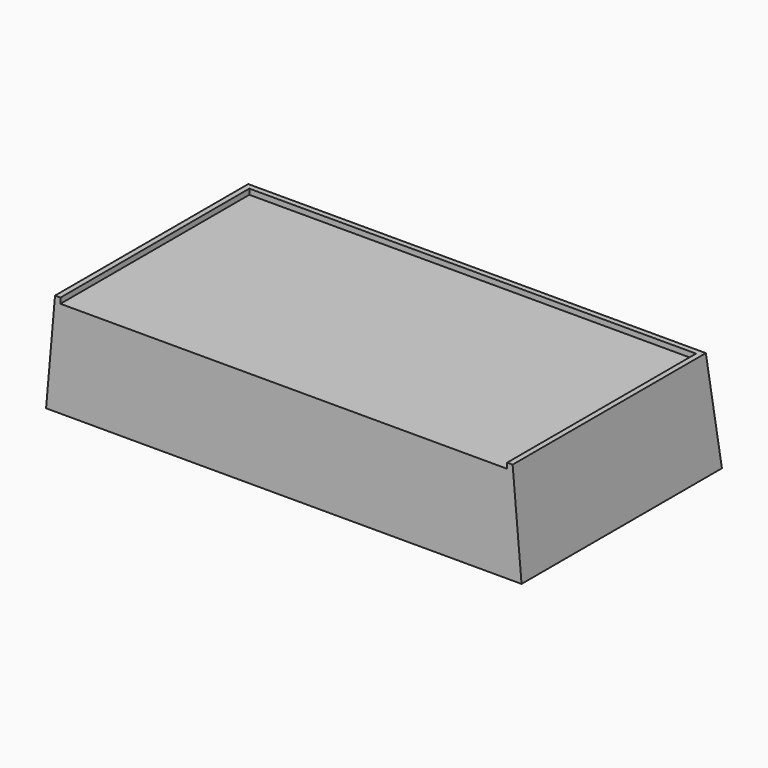
from build123d import *

# Parameters (mm, degrees)
F0_W          = 128.016
F0_H          = 67.564
F1_DEPTH      = 28.575
F1_TAPER      = -5
F2_W          = 2.4999885603
F2_H          = 28.575
F3_DEPTH      = 66.5089886603
F3_DEPTH_BACK = 66.5089886603
F4_W          = 124.968
F4_H          = 66.04
F5_DEPTH      = 1.524


with BuildPart() as f1:
    # F0 (on Top) → F1 (new body)
    with BuildSketch(Plane.XY):
        Rectangle(F0_W, F0_H)
    extrude(amount=-F1_DEPTH, taper=F1_TAPER)

    # F2 (on Right) → F3 (cut, two sides)
    with BuildSketch(Plane.YZ) as f3_sk:
        with Locations((-35.0319942801, -14.2875)):
            Rectangle(F2_W, F2_H)
    extrude(amount=-F3_DEPTH, mode=Mode.SUBTRACT)
    extrude(f3_sk.sketch, amount=F3_DEPTH_BACK, mode=Mode.SUBTRACT)

    # F4 (on face) → F5 (cut)
    with BuildSketch(Plane.XY):
        with Locations((0, -0.762)):
            Rectangle(F4_W, F4_H)
    extrude(amount=-F5_DEPTH, mode=Mode.SUBTRACT)


solid = f1.part
